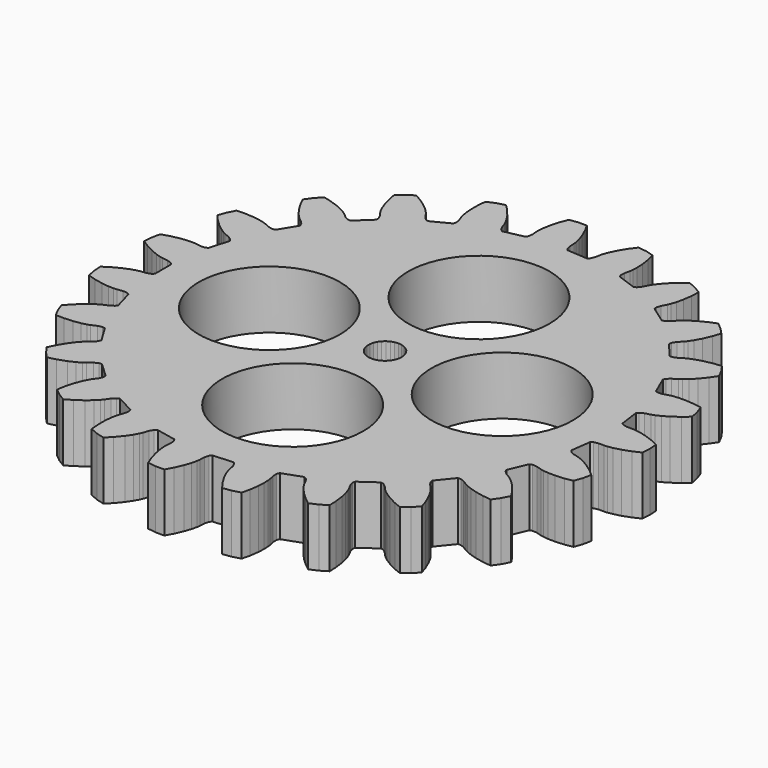
from build123d import *

# Parameters (mm, degrees)
F2_DEPTH = 7
F1_R     = 8.5
F3_DEPTH = 12.5


with BuildPart() as f2:
    # F0 (on Top) → F2 (new body)
    with BuildSketch(Plane.XY):
        Polygon((19.396108, -9.719149), (20.37013, -9.558844), (20.715204, -8.587898), (20.924854, -7.579008), (20.175923, -6.935954), (19.299389, -6.312276), (18.570394, -5.887727), (18.016229, -5.629337), (17.659328, -5.500981), (17.023419, -5.335773), (16.547889, -5.10126), (16.337393, -4.84655), (16.67071, -2.421489), (16.94212, -2.233016), (17.463287, -2.135495), (18.120188, -2.14798), (18.498483, -2.120674), (19.101811, -2.021379), (19.918315, -1.809253), (20.930611, -1.445189), (21.825264, -1.028041), (21.895584, 0), (21.825264, 1.028041), (20.930611, 1.445189), (19.918315, 1.809253), (19.101811, 2.021379), (18.498483, 2.120674), (18.120188, 2.14798), (17.463287, 2.135495), (16.94212, 2.233016), (16.67071, 2.421489), (16.337393, 4.84655), (16.547889, 5.10126), (17.023419, 5.335773), (17.659328, 5.500981), (18.016229, 5.629337), (18.570394, 5.887727), (19.299389, 6.312276), (20.175923, 6.935954), (20.924854, 7.579008), (20.715204, 8.587898), (20.37013, 9.558844), (19.396108, 9.719149), (18.323127, 9.796598), (17.479671, 9.780568), (16.871927, 9.713405), (16.500292, 9.637636), (15.87112, 9.448384), (15.342968, 9.401679), (15.030773, 9.509938), (14.055543, 11.755143), (14.189513, 12.057199), (14.584138, 12.411312), (15.151894, 12.741959), (15.460929, 12.961847), (15.924832, 13.360166), (16.512251, 13.965653), (17.188015, 14.802689), (17.73568, 15.623956), (17.261609, 16.538871), (16.667373, 17.380712), (15.686221, 17.272284), (14.632134, 17.057375), (13.82428, 16.814377), (13.257193, 16.585737), (12.919782, 16.412512), (12.365, 16.060529), (11.869035, 15.873063), (11.539209, 15.893078), (9.994394, 17.791911), (10.041902, 18.11891), (10.326355, 18.566361), (10.783849, 19.037925), (11.0221, 19.333035), (11.361334, 19.841744), (11.763613, 20.583261), (12.188487, 21.571577), (12.494268, 22.510146), (11.790936, 23.263231), (10.99161, 23.913531), (10.076096, 23.544413), (9.119078, 23.053084), (8.406742, 22.60114), (7.92237, 22.227981), (7.644207, 21.970147), (7.204962, 21.481539), (6.777966, 21.167214), (6.454971, 21.097501), (4.455143, 22.509134), (4.412666, 22.836825), (4.56585, 23.344427), (4.879152, 23.921935), (5.028948, 24.270381), (5.218355, 24.851749), (5.405657, 25.674302), (5.548131, 26.740599), (5.589351, 27.726863), (4.70892, 28.262264), (3.763786, 28.672794), (2.981808, 28.07036), (2.192839, 27.339051), (1.628851, 26.711681), (1.263118, 26.221677), (1.064832, 25.898357), (0.773701, 25.309361), (0.447343, 24.89149), (0.155134, 24.737219), (-2.151389, 25.556958), (-2.280701, 25.861037), (-2.270147, 26.391144), (-2.124273, 27.031765), (-2.074041, 27.407704), (-2.048509, 28.018615), (-2.090075, 28.861199), (-2.240567, 29.926393), (-2.466968, 30.887204), (-3.459199, 31.165214), (-4.480044, 31.305526), (-5.07049, 30.514458), (-5.632897, 29.597405), (-6.006708, 28.841138), (-6.226678, 28.270632), (-6.330379, 27.905804), (-6.451806, 27.260103), (-6.653321, 26.769678), (-6.893072, 26.542291), (-9.335227, 26.709338), (-9.541782, 26.967254), (-9.674641, 27.480551), (-9.707013, 28.136772), (-9.760072, 28.512322), (-9.900308, 29.107468), (-10.167659, 29.907592), (-10.599957, 30.892683), (-11.077185, 31.756783), (-12.107628, 31.756783), (-13.128474, 31.616471), (-13.483596, 30.695437), (-13.77773, 29.660656), (-13.933641, 28.83158), (-13.991533, 28.222883), (-13.992959, 27.843605), (-13.935675, 27.189088), (-13.997402, 26.662481), (-14.166914, 26.378842), (-16.563576, 25.88081), (-16.832057, 26.073433), (-17.098475, 26.531851), (-17.306693, 27.155003), (-17.459106, 27.502313), (-17.754711, 28.037553), (-18.228019, 28.735876), (-18.91006, 29.567805), (-19.602723, 30.271107), (-20.594954, 29.993097), (-21.540088, 29.582567), (-21.633549, 28.599877), (-21.637596, 27.524112), (-21.564043, 26.683716), (-21.455563, 26.081971), (-21.354609, 25.716374), (-21.122862, 25.101583), (-21.040224, 24.57785), (-21.126925, 24.258995), (-23.300344, 23.13282), (-23.610838, 23.245865), (-23.991056, 23.615405), (-24.359678, 24.159273), (-24.600142, 24.452582), (-25.029191, 24.888221), (-25.673352, 25.432951), (-26.554554, 26.050018), (-27.411279, 26.540361), (-28.29171, 26.004959), (-29.091036, 25.354659), (-28.915905, 24.383194), (-28.629563, 23.34623), (-28.332002, 22.556842), (-28.065196, 22.00668), (-27.869349, 21.681876), (-27.480327, 21.152408), (-27.259451, 20.670393), (-27.256912, 20.33997), (-29.045896, 18.669175), (-29.375375, 18.694257), (-29.841195, 18.947512), (-30.34288, 19.371759), (-30.653561, 19.589315), (-31.184234, 19.893043), (-31.951475, 20.243781), (-32.966481, 20.60022), (-33.92373, 20.841238), (-34.627062, 20.088153), (-35.221299, 19.246312), (-34.790563, 18.358122), (-34.23507, 17.436865), (-33.735569, 16.757031), (-33.330225, 16.299253), (-33.054009, 16.039334), (-32.536565, 15.634456), (-32.193834, 15.229907), (-32.102241, 14.912422), (-33.374111, 12.820922), (-33.698139, 12.756182), (-34.215011, 12.874369), (-34.812554, 13.147531), (-35.17041, 13.273199), (-35.763348, 13.42249), (-36.596766, 13.553222), (-37.670299, 13.622598), (-38.657077, 13.596416), (-39.131147, 12.681501), (-39.476222, 11.710554), (-38.821829, 10.971511), (-38.038383, 10.234287), (-37.373987, 9.714427), (-36.860168, 9.382986), (-36.524069, 9.207227), (-35.916579, 8.956968), (-35.477411, 8.659888), (-35.303558, 8.378888), (-35.963983, 6.021801), (-36.258529, 5.87204), (-36.788121, 5.846393), (-37.437203, 5.94821), (-37.815694, 5.97267), (-38.426923, 5.956452), (-39.264706, 5.857483), (-40.317147, 5.63465), (-41.260268, 5.343209), (-41.469918, 4.334319), (-41.540238, 3.306278), (-40.71072, 2.771194), (-39.757426, 2.272679), (-38.977411, 1.951349), (-38.393224, 1.770825), (-38.02217, 1.692262), (-37.369688, 1.615183), (-36.866654, 1.447605), (-36.623435, 1.22393), (-36.623435, -1.22393), (-36.866654, -1.447605), (-37.369688, -1.615183), (-38.02217, -1.692262), (-38.393224, -1.770825), (-38.977411, -1.951349), (-39.757426, -2.272679), (-40.71072, -2.771194), (-41.540238, -3.306278), (-41.469918, -4.334319), (-41.260268, -5.343209), (-40.317147, -5.63465), (-39.264706, -5.857483), (-38.426923, -5.956452), (-37.815694, -5.97267), (-37.437203, -5.94821), (-36.788121, -5.846393), (-36.258529, -5.87204), (-35.963983, -6.021801), (-35.303558, -8.378888), (-35.477411, -8.659888), (-35.916579, -8.956968), (-36.524069, -9.207227), (-36.860168, -9.382986), (-37.373987, -9.714427), (-38.038383, -10.234287), (-38.821829, -10.971511), (-39.476222, -11.710554), (-39.131147, -12.681501), (-38.657077, -13.596416), (-37.670299, -13.622598), (-36.596766, -13.553222), (-35.763348, -13.42249), (-35.17041, -13.273199), (-34.812554, -13.147531), (-34.215011, -12.874369), (-33.698139, -12.756182), (-33.374111, -12.820922), (-32.102241, -14.912422), (-32.193834, -15.229907), (-32.536565, -15.634456), (-33.054009, -16.039334), (-33.330225, -16.299253), (-33.735569, -16.757031), (-34.23507, -17.436865), (-34.790563, -18.358122), (-35.221299, -19.246312), (-34.627062, -20.088153), (-33.92373, -20.841238), (-32.966481, -20.60022), (-31.951475, -20.243781), (-31.184234, -19.893043), (-30.653561, -19.589315), (-30.34288, -19.371759), (-29.841195, -18.947512), (-29.375375, -18.694257), (-29.045896, -18.669175), (-27.256912, -20.33997), (-27.259451, -20.670393), (-27.480327, -21.152408), (-27.869349, -21.681876), (-28.065196, -22.00668), (-28.332002, -22.556842), (-28.629563, -23.34623), (-28.915905, -24.383194), (-29.091036, -25.354659), (-28.29171, -26.004959), (-27.411279, -26.540361), (-26.554554, -26.050018), (-25.673352, -25.432951), (-25.029191, -24.888221), (-24.600142, -24.452582), (-24.359678, -24.159273), (-23.991056, -23.615405), (-23.610838, -23.245865), (-23.300344, -23.13282), (-21.126925, -24.258995), (-21.040224, -24.57785), (-21.122862, -25.101583), (-21.354609, -25.716374), (-21.455563, -26.081971), (-21.564043, -26.683716), (-21.637596, -27.524112), (-21.633549, -28.599877), (-21.540088, -29.582567), (-20.594954, -29.993097), (-19.602723, -30.271107), (-18.91006, -29.567805), (-18.228019, -28.735876), (-17.754711, -28.037553), (-17.459106, -27.502313), (-17.306693, -27.155003), (-17.098475, -26.531851), (-16.832057, -26.073433), (-16.563576, -25.88081), (-14.166914, -26.378842), (-13.997402, -26.662481), (-13.935675, -27.189088), (-13.992959, -27.843605), (-13.991533, -28.222883), (-13.933641, -28.83158), (-13.77773, -29.660656), (-13.483596, -30.695437), (-13.128474, -31.616471), (-12.107628, -31.756783), (-11.077185, -31.756783), (-10.599957, -30.892683), (-10.167659, -29.907592), (-9.900308, -29.107468), (-9.760072, -28.512322), (-9.707013, -28.136772), (-9.674641, -27.480551), (-9.541782, -26.967254), (-9.335227, -26.709338), (-6.893072, -26.542291), (-6.653321, -26.769678), (-6.451806, -27.260103), (-6.330379, -27.905804), (-6.226678, -28.270632), (-6.006708, -28.841138), (-5.632897, -29.597405), (-5.07049, -30.514458), (-4.480044, -31.305526), (-3.459199, -31.165214), (-2.466968, -30.887204), (-2.240567, -29.926393), (-2.090075, -28.861199), (-2.048509, -28.018615), (-2.074041, -27.407704), (-2.124273, -27.031765), (-2.270147, -26.391144), (-2.280701, -25.861037), (-2.151389, -25.556958), (0.155134, -24.737219), (0.447343, -24.89149), (0.773701, -25.309361), (1.064832, -25.898357), (1.263118, -26.221677), (1.628851, -26.711681), (2.192839, -27.339051), (2.981808, -28.07036), (3.763786, -28.672794), (4.70892, -28.262264), (5.589351, -27.726863), (5.548131, -26.740599), (5.405657, -25.674302), (5.218355, -24.851749), (5.028948, -24.270381), (4.879152, -23.921935), (4.56585, -23.344427), (4.412666, -22.836825), (4.455143, -22.509134), (6.454971, -21.097501), (6.777966, -21.167214), (7.204962, -21.481539), (7.644207, -21.970147), (7.92237, -22.227981), (8.406742, -22.60114), (9.119078, -23.053084), (10.076096, -23.544413), (10.99161, -23.913531), (11.790936, -23.263231), (12.494268, -22.510146), (12.188487, -21.571577), (11.763613, -20.583261), (11.361334, -19.841744), (11.0221, -19.333035), (10.783849, -19.037925), (10.326355, -18.566361), (10.041902, -18.11891), (9.994394, -17.791911), (11.539209, -15.893078), (11.869035, -15.873063), (12.365, -16.060529), (12.919782, -16.412512), (13.257193, -16.585737), (13.82428, -16.814377), (14.632134, -17.057375), (15.686221, -17.272284), (16.667373, -17.380712), (17.261609, -16.538871), (17.73568, -15.623956), (17.188015, -14.802689), (16.512251, -13.965653), (15.924832, -13.360166), (15.460929, -12.961847), (15.151894, -12.741959), (14.584138, -12.411312), (14.189513, -12.057199), (14.055543, -11.755143), (15.030773, -9.509938), (15.342968, -9.401679), (15.87112, -9.448384), (16.500292, -9.637636), (16.871927, -9.713405), (17.479671, -9.780568), (18.323127, -9.796598), align=None)
        Polygon((-9.121932, -1.827091), (-9.519582, -1.956295), (-9.935405, -2), (-10.351228, -1.956295), (-10.748878, -1.827091), (-11.110976, -1.618034), (-11.421695, -1.338261), (-11.667456, -1), (-11.837518, -0.618034), (-11.924449, -0.209057), (-11.924449, 0.209057), (-11.837518, 0.618034), (-11.667456, 1), (-11.421695, 1.338261), (-11.110976, 1.618034), (-10.748878, 1.827091), (-10.351228, 1.956295), (-9.935405, 2), (-9.519582, 1.956295), (-9.121932, 1.827091), (-8.759834, 1.618034), (-8.449115, 1.338261), (-8.203354, 1), (-8.033292, 0.618034), (-7.946361, 0.209057), (-7.946361, -0.209057), (-8.033292, -0.618034), (-8.203354, -1), (-8.449115, -1.338261), (-8.759834, -1.618034), align=None, mode=Mode.SUBTRACT)
    extrude(amount=F2_DEPTH)

    # F1 (on Top) → F3 (cut, symmetric)
    with BuildSketch(Plane.XY):
        with Locations((-23.847482, 0)):
            Circle(F1_R)
        with Locations((-9.847482, 14)):
            Circle(F1_R)
        with Locations((4.152518, 0)):
            Circle(F1_R)
        with Locations((-9.847482, -14)):
            Circle(F1_R)
    extrude(amount=F3_DEPTH, both=True, mode=Mode.SUBTRACT)


solid = f2.part
